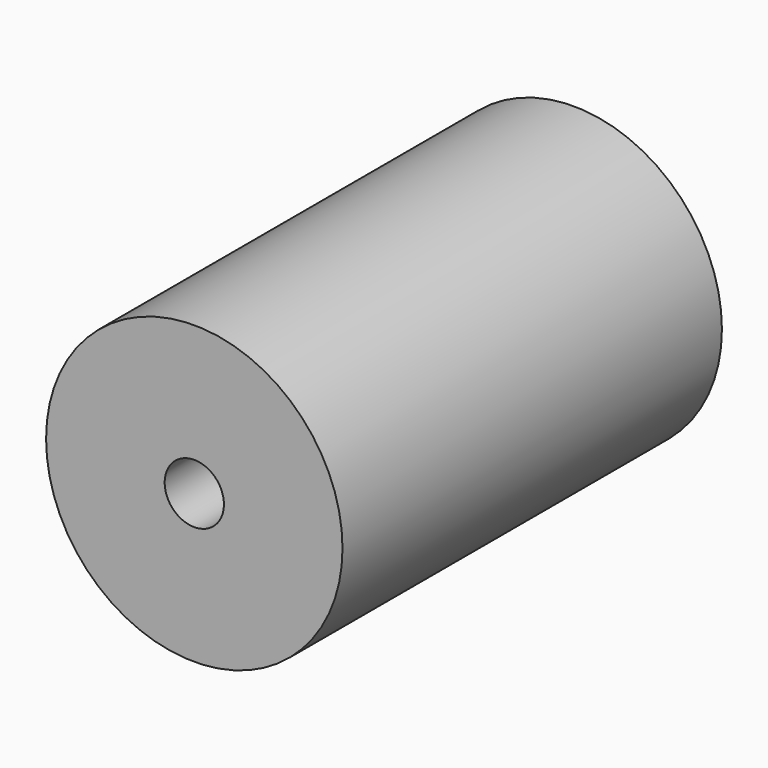
from build123d import *

# Parameters (mm, degrees)
F0_R     = 15.875
F1_DEPTH = 50.8
F2_D     = 6.35


with BuildPart() as f1:
    # F0 (on Front) → F1 (new body)
    with BuildSketch(Plane.XZ):
        with Locations((19.9394002557, 20.4441957176)):
            Circle(F0_R)
    extrude(amount=F1_DEPTH)

    # F2 (through all)
    with Locations(Plane(origin=(0, 0, 0), x_dir=(1, 0, 0), z_dir=(0, 1, 0))):
        with Locations((19.9394002557, -20.4441957176)):
            Hole(F2_D / 2)


solid = f1.part
